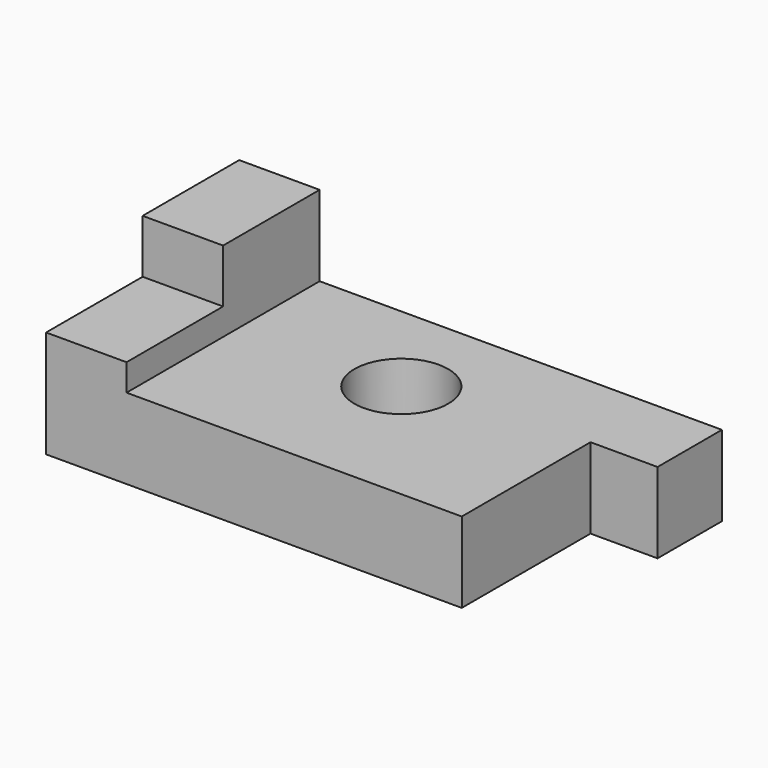
from build123d import *

# Parameters (mm, degrees)
F0_W     = 114.3
F0_H     = 57.15
F1_DEPTH = 19.05
F2_W     = 15.875
F2_H     = 38.1
F3_DEPTH = 19.05
F4_W     = 19.05
F4_H     = 57.15
F5_DEPTH = 19.05
F6_W     = 19.05
F6_H     = 28.575
F7_DEPTH = 12.7
F8_R     = 11.1125
F9_DEPTH = 25.4


with BuildPart() as f1:
    # F0 (on Top) → F1 (new body)
    with BuildSketch(Plane.XY):
        with Locations((23.254139, -5.123794)):
            Rectangle(F0_W, F0_H)
    extrude(amount=F1_DEPTH)

    # F2 (on face) → F3 (cut)
    with BuildSketch(Plane.XY.offset(19.05)):
        with Locations((72.466639, -14.648794)):
            Rectangle(F2_W, F2_H)
    extrude(amount=-F3_DEPTH, mode=Mode.SUBTRACT)

    # F4 (on face) → F5 (join)
    with BuildSketch(Plane.XY.offset(19.05)):
        with Locations((-24.370861, -5.123794)):
            Rectangle(F4_W, F4_H)
    extrude(amount=F5_DEPTH)

    # F6 (on face) → F7 (cut)
    with BuildSketch(Plane.XY.offset(38.1)):
        with Locations((-24.370861, -19.411294)):
            Rectangle(F6_W, F6_H)
    extrude(amount=-F7_DEPTH, mode=Mode.SUBTRACT)

    # F8 (on face) → F9 (cut)
    with BuildSketch(Plane.XY.offset(19.05)):
        with Locations((23.254139, 0)):
            Circle(F8_R)
    extrude(amount=-F9_DEPTH, mode=Mode.SUBTRACT)


solid = f1.part
